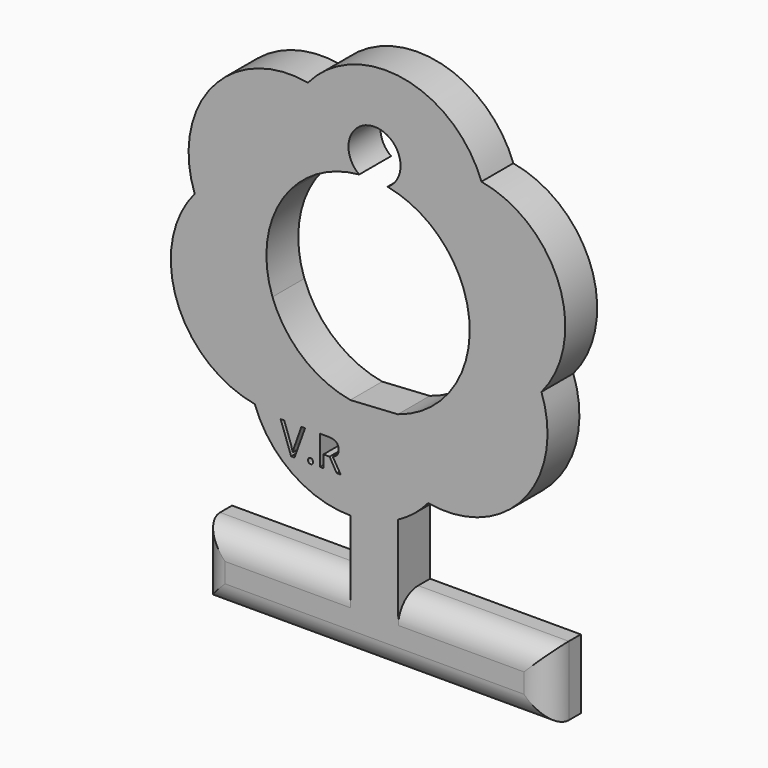
from build123d import *

# Parameters (mm, degrees)
F1_DEPTH = 8
F2_R     = 5


with BuildPart() as f1:
    # F0 (on Front) → F1 (new body)
    with BuildSketch(Plane.XZ):
        Polygon((-4.7884929424, 6.975), (-35, 6.975), (-35, -6.975), (-4.7552655505, -6.975), align=None)
        with BuildLine():
            Line((-4.815391477, 18.2679283934), (-4.7884929424, 6.975))
            Line((-4.7884929424, 6.975), (4.7552655505, 6.975))
            Line((4.7552655505, 6.975), (4.7226697487, 20.6598368154))
            ThreePointArc((4.7226697487, 20.6598368154), (0.0998647972, 18.880787826), (-4.815391477, 18.2679283934))
        make_face()
        Polygon((4.7552655505, 6.975), (-4.7884929424, 6.975), (-4.7552655505, -6.975), (4.7884929424, -6.975), align=None)
        Polygon((35, 6.975), (4.7552655505, 6.975), (4.7884929424, -6.975), (35, -6.975), align=None)
        with BuildLine():
            ThreePointArc((-24.048441977, 31.7176597434), (-16.5588212007, 21.9513310022), (-4.815391477, 18.2679283934))
            Line((-4.815391477, 18.2679283934), (-4.863998607, 38.674870505))
            ThreePointArc((-4.863998607, 38.674870505), (-13.5241307894, 32.6260370701), (-24.048441977, 31.7176597434))
        make_face()
        with BuildLine():
            add(Edge.make_bspline(
                [(-13.1900259225, 24.8776112918), (-13.3247436315, 25.0045940128), (-13.3247436315, 25.2946560658)],
                knots=[0, 0, 0, 1, 1, 1], degree=2))
            add(Edge.make_bspline(
                [(-13.3247436315, 25.2946560658), (-13.3247436315, 25.5653806485), (-13.2016284046, 25.7039658516)],
                knots=[0, 0, 0, 1, 1, 1], degree=2))
            add(Edge.make_bspline(
                [(-13.2016284046, 25.7039658516), (-13.0785131777, 25.8425510547), (-12.8490418647, 25.8425510547)],
                knots=[0, 0, 0, 1, 1, 1], degree=2))
            add(Edge.make_bspline(
                [(-12.8490418647, 25.8425510547), (-12.6157030576, 25.8425510547), (-12.4848528426, 25.7039658516)],
                knots=[0, 0, 0, 1, 1, 1], degree=2))
            add(Edge.make_bspline(
                [(-12.4848528426, 25.7039658516), (-12.3540026276, 25.5653806485), (-12.3540026276, 25.2946560658)],
                knots=[0, 0, 0, 1, 1, 1], degree=2))
            add(Edge.make_bspline(
                [(-12.3540026276, 25.2946560658), (-12.3540026276, 25.0329556358), (-12.4867865897, 24.8917921033)],
                knots=[0, 0, 0, 1, 1, 1], degree=2))
            add(Edge.make_bspline(
                [(-12.4867865897, 24.8917921033), (-12.6195705517, 24.7506285709), (-12.8490418647, 24.7506285709)],
                knots=[0, 0, 0, 1, 1, 1], degree=2))
            add(Edge.make_bspline(
                [(-12.8490418647, 24.7506285709), (-13.0553082135, 24.7506285709), (-13.1900259225, 24.8776112918)],
                knots=[0, 0, 0, 1, 1, 1], degree=2))
        make_face(mode=Mode.SUBTRACT)
        with BuildLine():
            Line((-16.0190978123, 26.9705701495), (-14.6732098866, 30.7581359787))
            Line((-14.6732098866, 30.7581359787), (-13.9370968544, 30.7581359787))
            Line((-13.9370968544, 30.7581359787), (-16.0590619174, 24.8679425567))
            Line((-16.0590619174, 24.8679425567), (-16.7358733743, 24.8679425567))
            Line((-16.7358733743, 24.8679425567), (-18.8475251198, 30.7581359787))
            Line((-18.8475251198, 30.7581359787), (-18.1217254051, 30.7581359787))
            Line((-18.1217254051, 30.7581359787), (-16.7681024913, 26.9473651853))
            add(Edge.make_bspline(
                [(-16.7681024913, 26.9473651853), (-16.5347636842, 26.2898911986), (-16.3981122282, 25.6698029876)],
                knots=[0, 0, 0, 1, 1, 1], degree=2))
            add(Edge.make_bspline(
                [(-16.3981122282, 25.6698029876), (-16.2524366193, 26.3221203156), (-16.0190978123, 26.9705701495)],
                knots=[0, 0, 0, 1, 1, 1], degree=2))
        make_face(mode=Mode.SUBTRACT)
        with BuildLine():
            Line((-9.0176444363, 27.3173554484), (-10.2475075409, 27.3173554484))
            Line((-10.2475075409, 27.3173554484), (-10.2475075409, 24.8679425567))
            Line((-10.2475075409, 24.8679425567), (-10.9320539858, 24.8679425567))
            Line((-10.9320539858, 24.8679425567), (-10.9320539858, 30.7581359787))
            Line((-10.9320539858, 30.7581359787), (-9.316730642, 30.7581359787))
            add(Edge.make_bspline(
                [(-9.316730642, 30.7581359787), (-8.2325431463, 30.7581359787), (-7.7149435274, 30.3430249518)],
                knots=[0, 0, 0, 1, 1, 1], degree=2))
            add(Edge.make_bspline(
                [(-7.7149435274, 30.3430249518), (-7.1973439085, 29.9279139249), (-7.1973439085, 29.0938243771)],
                knots=[0, 0, 0, 1, 1, 1], degree=2))
            add(Edge.make_bspline(
                [(-7.1973439085, 29.0938243771), (-7.1973439085, 27.9258411772), (-8.3820862492, 27.5145976444)],
                knots=[0, 0, 0, 1, 1, 1], degree=2))
            Line((-8.3820862492, 27.5145976444), (-6.7822328816, 24.8679425567))
            Line((-6.7822328816, 24.8679425567), (-7.5918283005, 24.8679425567))
            Line((-7.5918283005, 24.8679425567), (-9.0176444363, 27.3173554484))
        make_face(mode=Mode.SUBTRACT)
        with BuildLine():
            Line((-4.863998607, 38.674870505), (-4.815391477, 18.2679283934))
            ThreePointArc((-4.815391477, 18.2679283934), (0.0998647972, 18.880787826), (4.7226697487, 20.6598368154))
            Line((4.7226697487, 20.6598368154), (4.7060632326, 27.6318224688))
            Line((4.7060632326, 27.6318224688), (4.6783778732, 39.2550869399))
            Line((4.6783778732, 39.2550869399), (-4.863998607, 38.674870505))
        make_face()
        with BuildLine():
            Line((4.7060632326, 27.6318224688), (4.7226697487, 20.6598368154))
            ThreePointArc((4.7226697487, 20.6598368154), (7.9719953336, 22.8103532241), (10.7533443371, 25.5392605699))
            ThreePointArc((10.7533443371, 25.5392605699), (7.6471719178, 26.3470332103), (4.7060632326, 27.6318224688))
        make_face()
        with BuildLine():
            ThreePointArc((-24.048441977, 31.7176597434), (-13.5241307894, 32.6260370701), (-4.863998607, 38.674870505))
            ThreePointArc((-4.863998607, 38.674870505), (-14.4325081161, 43.1503482577), (-20.481341551, 51.8104804401))
            ThreePointArc((-20.481341551, 51.8104804401), (-24.9568193037, 42.241970931), (-24.048441977, 31.7176597434))
        make_face()
        with BuildLine():
            ThreePointArc((-36.0986844951, 64.9460903753), (-39.6657849211, 44.8532696785), (-24.048441977, 31.7176597434))
            ThreePointArc((-24.048441977, 31.7176597434), (-24.9568193037, 42.241970931), (-20.481341551, 51.8104804401))
            ThreePointArc((-20.481341551, 51.8104804401), (-30.0498510602, 56.2859581928), (-36.0986844951, 64.9460903753))
        make_face()
        with BuildLine():
            Line((4.6783778732, 39.2550869399), (4.7060632326, 27.6318224688))
            ThreePointArc((4.7060632326, 27.6318224688), (7.6471719178, 26.3470332103), (10.7533443371, 25.5392605699))
            ThreePointArc((10.7533443371, 25.5392605699), (15.2288220897, 35.107770079), (14.3204447631, 45.6320812666))
            ThreePointArc((14.3204447631, 45.6320812666), (9.9604022486, 41.7465620958), (4.6783778732, 39.2550869399))
        make_face()
        with BuildLine():
            ThreePointArc((14.3204447631, 45.6320812666), (15.2288220897, 35.107770079), (10.7533443371, 25.5392605699))
            ThreePointArc((10.7533443371, 25.5392605699), (29.9377877071, 32.4964713315), (33.5048881331, 52.5892920282))
            ThreePointArc((33.5048881331, 52.5892920282), (24.8447559507, 46.5404585933), (14.3204447631, 45.6320812666))
        make_face()
        with BuildLine():
            ThreePointArc((-36.0986844951, 64.9460903753), (-30.0498510602, 56.2859581928), (-20.481341551, 51.8104804401))
            ThreePointArc((-20.481341551, 51.8104804401), (-21.3897188777, 62.3347916277), (-16.914241125, 71.9033011369))
            ThreePointArc((-16.914241125, 71.9033011369), (-27.4385523126, 70.9949238102), (-36.0986844951, 64.9460903753))
        make_face()
        with BuildLine():
            ThreePointArc((-13.347140699, 91.9961218336), (-32.5315840691, 85.038911072), (-36.0986844951, 64.9460903753))
            ThreePointArc((-36.0986844951, 64.9460903753), (-27.4385523126, 70.9949238102), (-16.914241125, 71.9033011369))
            ThreePointArc((-16.914241125, 71.9033011369), (-17.8226184517, 82.4276123244), (-13.347140699, 91.9961218336))
        make_face()
        with BuildLine():
            ThreePointArc((17.8875451891, 65.7249019633), (18.7959225157, 55.2005907757), (14.3204447631, 45.6320812666))
            ThreePointArc((14.3204447631, 45.6320812666), (24.8447559507, 46.5404585933), (33.5048881331, 52.5892920282))
            ThreePointArc((33.5048881331, 52.5892920282), (27.4560546982, 61.2494242106), (17.8875451891, 65.7249019633))
        make_face()
        with BuildLine():
            ThreePointArc((17.8875451891, 65.7249019633), (27.4560546982, 61.2494242106), (33.5048881331, 52.5892920282))
            ThreePointArc((33.5048881331, 52.5892920282), (37.0719885591, 72.6821127249), (21.4546456151, 85.81772266))
            ThreePointArc((21.4546456151, 85.81772266), (22.3630229418, 75.2934114724), (17.8875451891, 65.7249019633))
        make_face()
        with BuildLine():
            ThreePointArc((-13.347140699, 91.9961218336), (-17.8226184517, 82.4276123244), (-16.914241125, 71.9033011369))
            ThreePointArc((-16.914241125, 71.9033011369), (-10.710686982, 76.8736634045), (-3.078749577, 79.0967505652))
            ThreePointArc((-3.078749577, 79.0967505652), (-5.2212274005, 83.0794109578), (-3.4549967043, 87.2426097465))
            ThreePointArc((-3.4549967043, 87.2426097465), (-8.0755153119, 90.296848239), (-13.347140699, 91.9961218336))
        make_face()
        with BuildLine():
            ThreePointArc((2.6166495696, 78.7959161107), (11.9730736035, 74.2710294822), (17.8875451891, 65.7249019633))
            ThreePointArc((17.8875451891, 65.7249019633), (22.3630229418, 75.2934114724), (21.4546456151, 85.81772266))
            ThreePointArc((21.4546456151, 85.81772266), (12.6866425633, 85.4580279417), (4.880367051, 81.4493722528))
            ThreePointArc((4.880367051, 81.4493722528), (3.9763704464, 79.9282503523), (2.6166495696, 78.7959161107))
        make_face()
        with BuildLine():
            ThreePointArc((21.4546456151, 85.81772266), (5.837302671, 98.9533325952), (-13.347140699, 91.9961218336))
            ThreePointArc((-13.347140699, 91.9961218336), (-8.0755153119, 90.296848239), (-3.4549967043, 87.2426097465))
            ThreePointArc((-3.4549967043, 87.2426097465), (2.1518386227, 88.0838664996), (5.2267939203, 83.3205729723))
            ThreePointArc((5.2267939203, 83.3205729723), (5.1394575354, 82.3690736675), (4.880367051, 81.4493722528))
            ThreePointArc((4.880367051, 81.4493722528), (12.6866425633, 85.4580279417), (21.4546456151, 85.81772266))
        make_face()
    extrude(amount=F1_DEPTH)

    # F2
    f2_edges = [f1.edges().sort_by_distance(p)[0] for p in [
        (-19.894246, -8, 6.975),
        (-35, -8, 0),
        (0, -8, -6.975),
        (35, -8, 0),
        (19.877633, -8, 6.975),
    ]]
    fillet(f2_edges, radius=F2_R)


solid = f1.part
